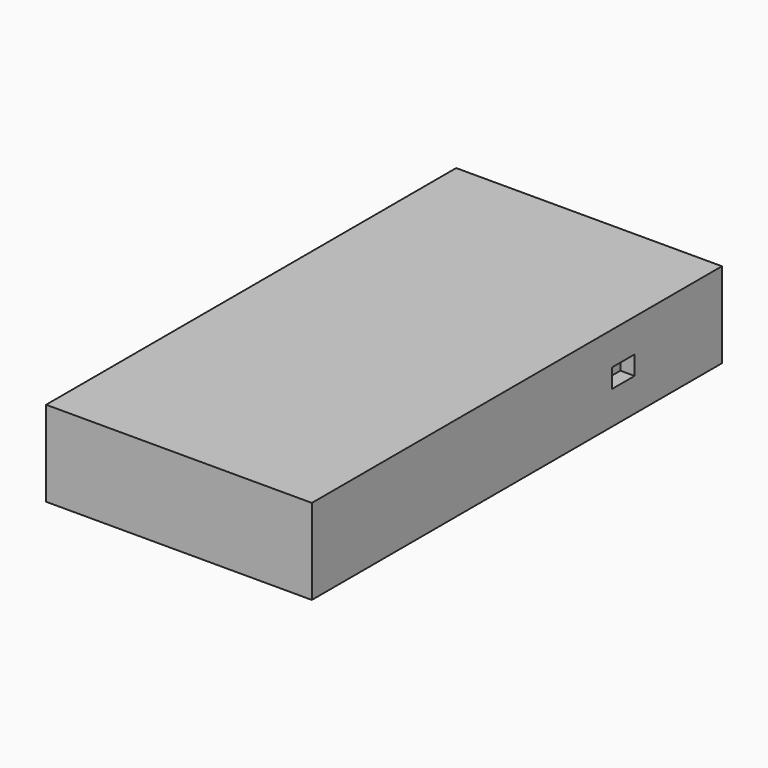
from build123d import *

# Parameters (mm, degrees)
F0_W     = 71.12
F0_H     = 137.16
F1_DEPTH = 22.86
F2_W     = 12.7
F2_H     = 5.08
F3_DEPTH = 11.43
F4_W     = 7.62
F4_H     = 5.08
F5_DEPTH = 3.81


with BuildPart() as f1:
    # F0 (on Top) → F1 (new body)
    with BuildSketch(Plane.XY):
        with Locations((-15.782022, -0.143904)):
            Rectangle(F0_W, F0_H)
    extrude(amount=F1_DEPTH)

    # F2 (on face) → F3 (cut)
    with BuildSketch(Plane(origin=(0, 68.436096, 0), x_dir=(-1, 0, 0), z_dir=(0, 1, 0))):
        with Locations((-5.807978, 10.16)):
            Rectangle(F2_W, F2_H)
        with Locations((37.372022, 10.16)):
            Rectangle(F2_W, F2_H)
    extrude(amount=-F3_DEPTH, mode=Mode.SUBTRACT)

    # F4 (on face) → F5 (cut)
    with BuildSketch(Plane.YZ.offset(19.777978)):
        with Locations((35.416096, 11.43)):
            Rectangle(F4_W, F4_H)
    extrude(amount=-F5_DEPTH, mode=Mode.SUBTRACT)


solid = f1.part
